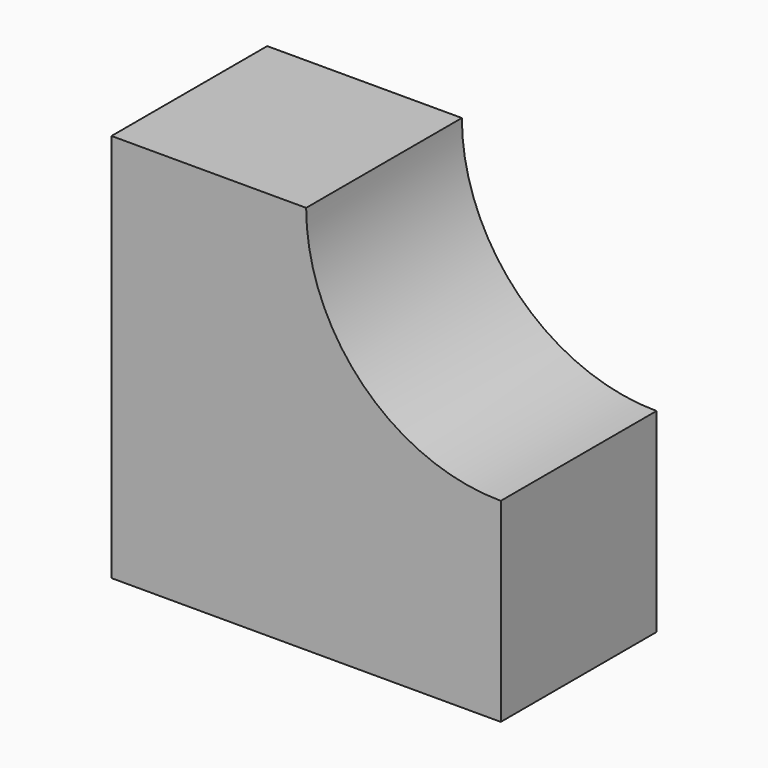
from build123d import *

# Parameters (mm, degrees)
F1_DEPTH = 25.4


with BuildPart() as f1:
    # F0 (on Front) → F1 (new body)
    with BuildSketch(Plane.XZ):
        with BuildLine():
            Line((25.4, 50.8), (0, 50.8))
            Line((0, 50.8), (0, 0))
            Line((0, 0), (50.8, 0))
            Line((50.8, 0), (50.8, 25.4))
            ThreePointArc((50.8, 25.4), (32.839488, 32.839488), (25.4, 50.8))
        make_face()
        with BuildLine():
            Line((25.4, 50.8), (0, 50.8))
            Line((0, 50.8), (0, 0))
            Line((0, 0), (50.8, 0))
            Line((50.8, 0), (50.8, 25.4))
            ThreePointArc((50.8, 25.4), (32.839488, 32.839488), (25.4, 50.8))
        make_face()
    extrude(amount=F1_DEPTH)


solid = f1.part
